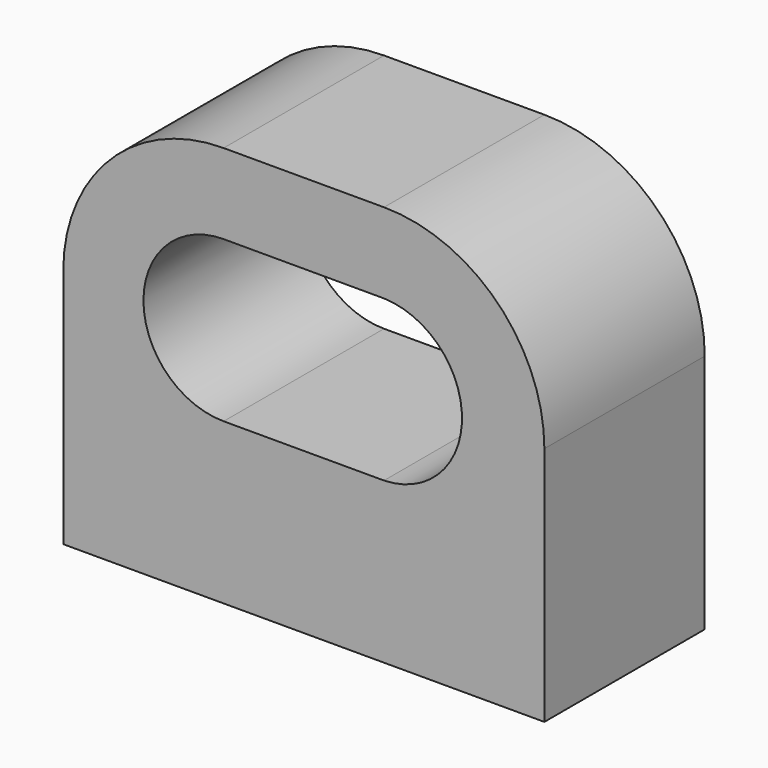
from build123d import *

# Parameters (mm, degrees)
F1_DEPTH = 25


with BuildPart() as f1:
    # F0 (on Front) → F1 (new body)
    with BuildSketch(Plane.XZ):
        with BuildLine():
            Line((10, 25), (-10, 25))
            ThreePointArc((-10, 25), (-24.142136, 19.142136), (-30, 5))
            Line((-30, 5), (-30, -25))
            Line((-30, -25), (30, -25))
            Line((30, -25), (30, 5))
            ThreePointArc((30, 5), (24.142136, 19.142136), (10, 25))
        make_face()
        with BuildLine():
            ThreePointArc((-10, -5), (-20, 5), (-10, 15))
            Line((-10, 15), (10, 14.992628))
            ThreePointArc((10, 14.992628), (19.728509, 4.996314), (10, -5))
            Line((10, -5), (-10, -5))
        make_face(mode=Mode.SUBTRACT)
    extrude(amount=F1_DEPTH)


solid = f1.part
